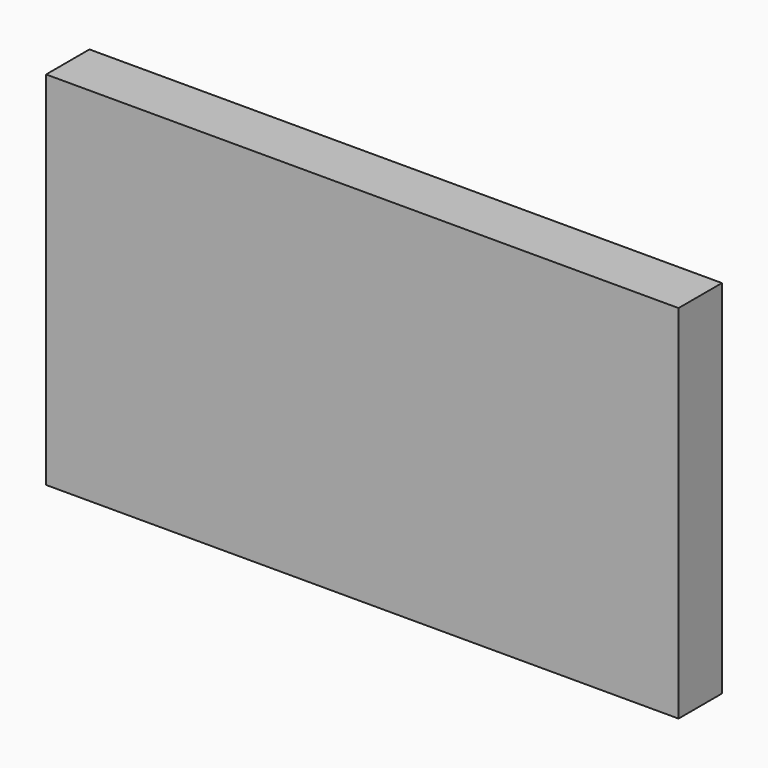
from build123d import *

# Parameters (mm, degrees)
SKETCH_W  = 140
SKETCH_H  = 80
PAD_DEPTH = 12


with BuildPart() as part:
    # Sketch → Pad (new body)
    with BuildSketch(Plane.XZ):
        with Locations((70, 40)):
            Rectangle(SKETCH_W, SKETCH_H)
    extrude(amount=-PAD_DEPTH)


solid = part.part
